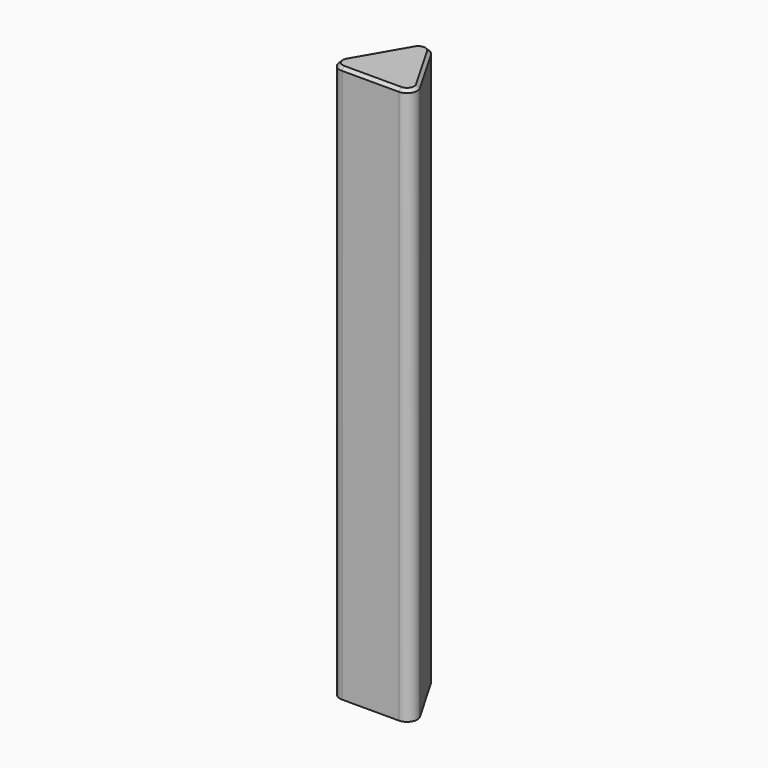
from build123d import *

# Parameters (mm, degrees)
F2_DEPTH = 273.05
F3_SIZE  = 1.5


with BuildPart() as f2:
    # F1 (on Top) → F2 (new body)
    with BuildSketch(Plane.XY):
        with BuildLine():
            Line((18.3301270189, -5.5829037687), (4.3301270189, 18.6658075373))
            ThreePointArc((4.3301270189, 18.6658075373), (0, 21.1658075373), (-4.3301270189, 18.6658075373))
            Line((-4.3301270189, 18.6658075373), (-18.3301270189, -5.5829037687))
            ThreePointArc((-18.3301270189, -5.5829037687), (-18.3301270189, -10.5829037687), (-14, -13.0829037687))
            Line((-14, -13.0829037687), (14, -13.0829037687))
            ThreePointArc((14, -13.0829037687), (18.3301270189, -10.5829037687), (18.3301270189, -5.5829037687))
        make_face()
    extrude(amount=F2_DEPTH)

    # F3
    f3_edges = [f2.edges().sort_by_distance(p)[0] for p in [
        (11.330127, 6.541452, 273.05),
        (0, 21.165808, 273.05),
        (-11.330127, 6.541452, 273.05),
        (-18.330127, -10.582904, 273.05),
        (0, -13.082904, 273.05),
        (18.330127, -10.582904, 273.05),
    ]]
    chamfer(f3_edges, length=F3_SIZE)


solid = f2.part
